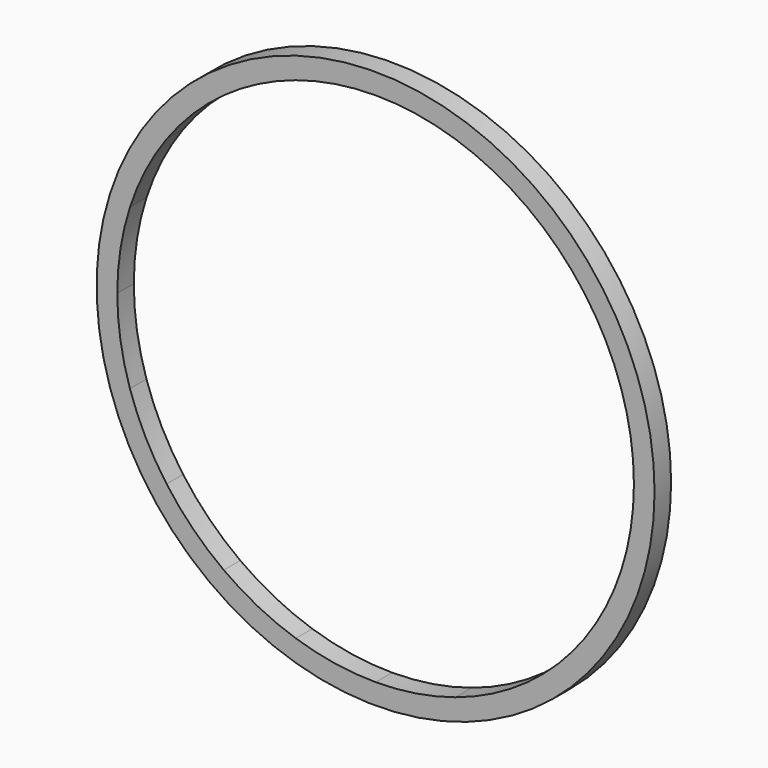
from build123d import *

# Parameters (mm, degrees)
F0_R     = 27
F1_DEPTH = 2


with BuildPart() as f1:
    # F0 (on Front) → F1 (new body)
    with BuildSketch(Plane.XZ):
        Circle(F0_R)
        with BuildLine():
            ThreePointArc((23.776413, 7.725425), (24.692209, 3.910862), (25, 0))
            ThreePointArc((25, 0), (24.692209, -3.910862), (23.776413, -7.725425))
            ThreePointArc((23.776413, -7.725425), (22.275163, -11.349762), (20.225425, -14.694631))
            ThreePointArc((20.225425, -14.694631), (17.67767, -17.67767), (14.694631, -20.225425))
            ThreePointArc((14.694631, -20.225425), (11.349762, -22.275163), (7.725425, -23.776413))
            ThreePointArc((7.725425, -23.776413), (3.910862, -24.692209), (0, -25))
            ThreePointArc((0, -25), (-3.910862, -24.692209), (-7.725425, -23.776413))
            ThreePointArc((-7.725425, -23.776413), (-11.349762, -22.275163), (-14.694631, -20.225425))
            ThreePointArc((-14.694631, -20.225425), (-17.67767, -17.67767), (-20.225425, -14.694631))
            ThreePointArc((-20.225425, -14.694631), (-22.275163, -11.349762), (-23.776413, -7.725425))
            ThreePointArc((-23.776413, -7.725425), (-24.692209, -3.910862), (-25, 0))
            ThreePointArc((-25, 0), (-24.692209, 3.910862), (-23.776413, 7.725425))
            ThreePointArc((-23.776413, 7.725425), (-22.275163, 11.349762), (-20.225425, 14.694631))
            ThreePointArc((-20.225425, 14.694631), (-17.67767, 17.67767), (-14.694631, 20.225425))
            ThreePointArc((-14.694631, 20.225425), (-11.349762, 22.275163), (-7.725425, 23.776413))
            ThreePointArc((-7.725425, 23.776413), (-3.910862, 24.692209), (0, 25))
            ThreePointArc((0, 25), (3.910862, 24.692209), (7.725425, 23.776413))
            ThreePointArc((7.725425, 23.776413), (11.349762, 22.275163), (14.694631, 20.225425))
            ThreePointArc((14.694631, 20.225425), (17.67767, 17.67767), (20.225425, 14.694631))
            ThreePointArc((20.225425, 14.694631), (22.275163, 11.349762), (23.776413, 7.725425))
        make_face(mode=Mode.SUBTRACT)
    extrude(amount=F1_DEPTH)


solid = f1.part
